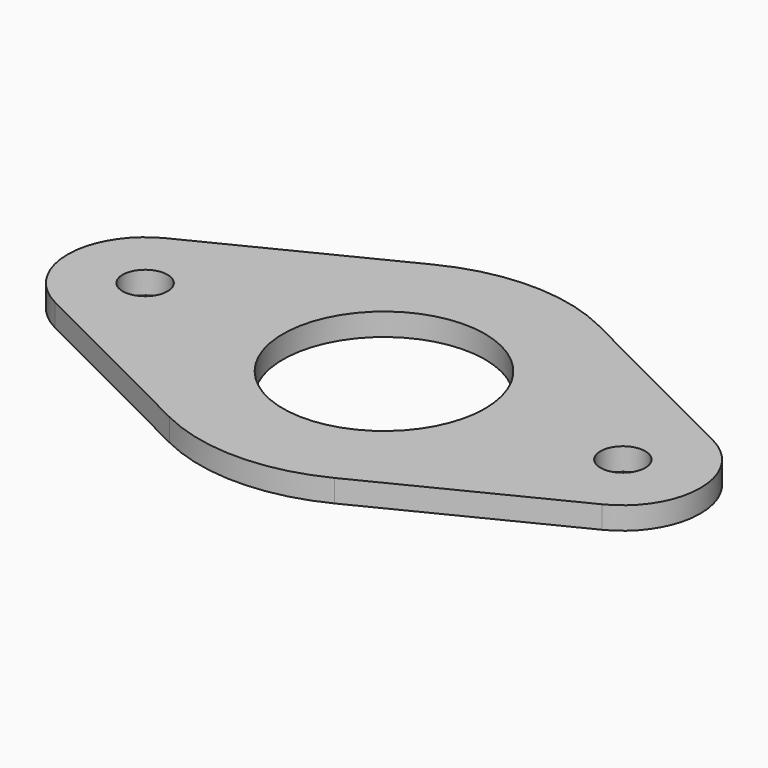
from build123d import *

# Parameters (mm, degrees)
F0_R     = 4
F0_R_2   = 18
F1_DEPTH = 2


with BuildPart() as f1:
    # F0 (on Top) → F1 (new body, symmetric)
    with BuildSketch(Plane.XY):
        with BuildLine():
            ThreePointArc((-31.732280933, 8.5683694007), (-39.5639115572, 13.473057404), (-48.7344588715, 12.3366311636))
            ThreePointArc((-48.7344588715, 12.3366311636), (-56.35, 0), (-48.7344588715, -12.3366311636))
            ThreePointArc((-48.7344588715, -12.3366311636), (-39.5639115572, -13.473057404), (-31.732280933, -8.5683694007))
            ThreePointArc((-31.732280933, -8.5683694007), (-32.8687481872, 0), (-31.732280933, 8.5683694007))
        make_face()
        with Locations((-42.55, 0)):
            Circle(F0_R, mode=Mode.SUBTRACT)
        with BuildLine():
            ThreePointArc((-28.75, 0), (-29.5168782879, 4.5362692201), (-31.732280933, 8.5683694007))
            ThreePointArc((-31.732280933, 8.5683694007), (-32.8687481872, 0), (-31.732280933, -8.5683694007))
            ThreePointArc((-31.732280933, -8.5683694007), (-29.5168782879, -4.5362692201), (-28.75, 0))
        make_face()
        with BuildLine():
            ThreePointArc((14.7301029944, 29.3833060286), (0, 32.8687481872), (-14.7301029944, 29.3833060286))
            ThreePointArc((-14.7301029944, 29.3833060286), (-25.455916341, 20.7930500561), (-31.732280933, 8.5683694007))
            ThreePointArc((-31.732280933, 8.5683694007), (-29.5168782879, 4.5362692201), (-28.75, 0))
            ThreePointArc((-28.75, 0), (-29.5168782879, -4.5362692201), (-31.732280933, -8.5683694007))
            ThreePointArc((-31.732280933, -8.5683694007), (-25.455916341, -20.7930500561), (-14.7301029944, -29.3833060286))
            ThreePointArc((-14.7301029944, -29.3833060286), (0, -32.8687481872), (14.7301029944, -29.3833060286))
            ThreePointArc((14.7301029944, -29.3833060286), (25.455916341, -20.7930500561), (31.732280933, -8.5683694007))
            ThreePointArc((31.732280933, -8.5683694007), (28.75, 0), (31.732280933, 8.5683694007))
            ThreePointArc((31.732280933, 8.5683694007), (25.455916341, 20.7930500561), (14.7301029944, 29.3833060286))
        make_face()
        Circle(F0_R_2, mode=Mode.SUBTRACT)
        with BuildLine():
            Line((-14.7301029944, 29.3833060286), (-48.7344588715, 12.3366311636))
            ThreePointArc((-48.7344588715, 12.3366311636), (-39.5639115572, 13.473057404), (-31.732280933, 8.5683694007))
            ThreePointArc((-31.732280933, 8.5683694007), (-25.455916341, 20.7930500561), (-14.7301029944, 29.3833060286))
        make_face()
        with BuildLine():
            ThreePointArc((-31.732280933, -8.5683694007), (-39.5639115572, -13.473057404), (-48.7344588715, -12.3366311636))
            Line((-48.7344588715, -12.3366311636), (-14.7301029944, -29.3833060286))
            ThreePointArc((-14.7301029944, -29.3833060286), (-25.455916341, -20.7930500561), (-31.732280933, -8.5683694007))
        make_face()
        with BuildLine():
            ThreePointArc((32.8687481872, 0), (32.5833926931, 4.3217042936), (31.732280933, 8.5683694007))
            ThreePointArc((31.732280933, 8.5683694007), (28.75, 0), (31.732280933, -8.5683694007))
            ThreePointArc((31.732280933, -8.5683694007), (32.5833926931, -4.3217042936), (32.8687481872, 0))
        make_face()
        with BuildLine():
            ThreePointArc((31.732280933, -8.5683694007), (25.455916341, -20.7930500561), (14.7301029944, -29.3833060286))
            Line((14.7301029944, -29.3833060286), (48.7344588715, -12.3366311636))
            ThreePointArc((48.7344588715, -12.3366311636), (39.5639115572, -13.473057404), (31.732280933, -8.5683694007))
        make_face()
        with BuildLine():
            ThreePointArc((48.7344588715, 12.3366311636), (39.5639115572, 13.473057404), (31.732280933, 8.5683694007))
            ThreePointArc((31.732280933, 8.5683694007), (32.5833926931, 4.3217042936), (32.8687481872, 0))
            ThreePointArc((32.8687481872, 0), (32.5833926931, -4.3217042936), (31.732280933, -8.5683694007))
            ThreePointArc((31.732280933, -8.5683694007), (39.5639115572, -13.473057404), (48.7344588715, -12.3366311636))
            ThreePointArc((48.7344588715, -12.3366311636), (54.2927750644, -7.2489470812), (56.35, 0))
            ThreePointArc((56.35, 0), (54.2927750644, 7.2489470812), (48.7344588715, 12.3366311636))
        make_face()
        with Locations((42.55, 0)):
            Circle(F0_R, mode=Mode.SUBTRACT)
        with BuildLine():
            Line((48.7344588715, 12.3366311636), (14.7301029944, 29.3833060286))
            ThreePointArc((14.7301029944, 29.3833060286), (25.455916341, 20.7930500561), (31.732280933, 8.5683694007))
            ThreePointArc((31.732280933, 8.5683694007), (39.5639115572, 13.473057404), (48.7344588715, 12.3366311636))
        make_face()
    extrude(amount=F1_DEPTH, both=True)


solid = f1.part
